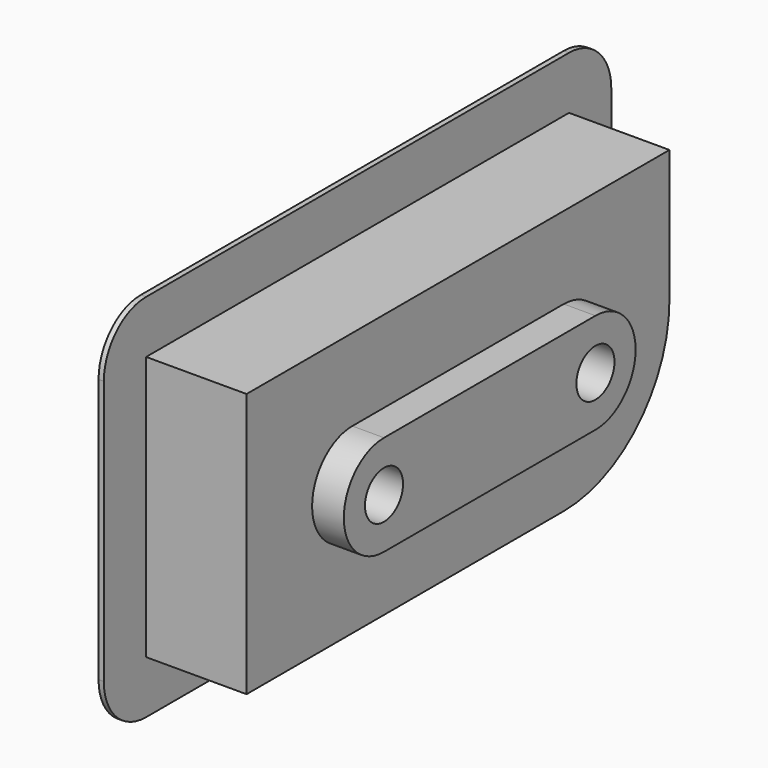
from build123d import *

# Parameters (mm, degrees)
F0_R     = 0.9
F1_DEPTH = 4
F2_R     = 0.9
F3_DEPTH = 1.2
F5_DEPTH = 0.2


with BuildPart() as f1:
    # F0 (on Right) → F1 (new body)
    with BuildSketch(Plane.YZ):
        with BuildLine():
            Line((20, 0), (0, 0))
            Line((0, 0), (0, -10))
            Line((0, -10), (15, -10))
            ThreePointArc((15, -10), (18.535534, -8.535534), (20, -5))
            Line((20, -5), (20, 0))
        make_face()
        with Locations((5, -5)):
            Circle(F0_R, mode=Mode.SUBTRACT)
        with Locations((15, -5)):
            Circle(F0_R, mode=Mode.SUBTRACT)
    extrude(amount=F1_DEPTH)

    # F2 (on face) → F3 (join)
    with BuildSketch(Plane.YZ.offset(4)):
        with BuildLine():
            Line((15, -3.1), (5, -3.1))
            ThreePointArc((5, -3.1), (3.1, -5), (5, -6.9))
            Line((5, -6.9), (15, -6.9))
            ThreePointArc((15, -6.9), (16.9, -5), (15, -3.1))
        make_face()
        with Locations((5, -5)):
            Circle(F2_R, mode=Mode.SUBTRACT)
        with Locations((15, -5)):
            Circle(F2_R, mode=Mode.SUBTRACT)
    extrude(amount=F3_DEPTH)

    # F4 (on face) → F5 (join)
    with BuildSketch(Plane(origin=(0, 0, 0), x_dir=(0, -1, 0), z_dir=(-1, 0, 0))):
        with BuildLine():
            ThreePointArc((-20, 2), (-21.414214, 1.414214), (-22, 0))
            Line((-22, 0), (-22, -5))
            ThreePointArc((-22, -5), (-19.949747, -9.949747), (-15, -12))
            Line((-15, -12), (0, -12))
            ThreePointArc((0, -12), (1.414214, -11.414214), (2, -10))
            Line((2, -10), (2, 0))
            ThreePointArc((2, 0), (1.414214, 1.414214), (0, 2))
            Line((0, 2), (-20, 2))
        make_face()
        with BuildLine():
            Line((-20, -5), (-20, 0))
            Line((-20, 0), (0, 0))
            Line((0, 0), (0, -10))
            Line((0, -10), (-15, -10))
            ThreePointArc((-15, -10), (-18.535534, -8.535534), (-20, -5))
        make_face(mode=Mode.SUBTRACT)
    extrude(amount=-F5_DEPTH)


solid = f1.part
